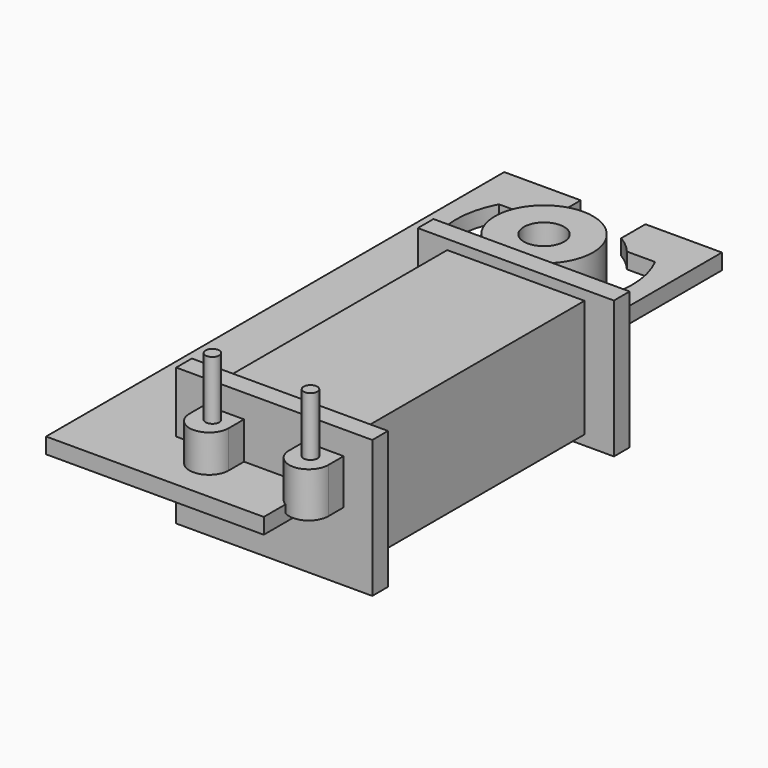
from build123d import *

# Parameters (mm, degrees)
PAD_DEPTH     = 0.4
SKETCH001_W   = 7
SKETCH001_H   = 14.4
PAD001_DEPTH  = 3
SKETCH002_W   = 10
SKETCH002_H   = 7
PAD002_DEPTH  = 1
SKETCH003_W   = 10
SKETCH003_H   = 7
PAD003_DEPTH  = 1
PAD005_DEPTH  = 2.3
SKETCH006_R   = 0.35
PAD006_DEPTH  = 3
SKETCH004_R   = 2.5
SKETCH004_R_2 = 1.025
PAD004_DEPTH  = 1.2


with BuildPart() as plate:
    # Sketch → Pad (new body, symmetric)
    with BuildSketch(Plane.XY):
        with BuildLine():
            Line((5.55, 4.4), (5.55, -24.8))
            Line((5.55, -24.8), (-5.55, -24.8))
            Line((-5.55, -24.8), (-5.55, 4.4))
            Line((-5.55, 4.4), (-1.65, 4.4))
            Line((-1.65, 4.4), (-1.65, 2.857884))
            ThreePointArc((-1.65, 2.857884), (-2.131743, 2.519062), (-2.545584, 2.1))
            Line((-3.97995, 2.1), (-2.545584, 2.1))
            ThreePointArc((-3.97995, 2.1), (-4.5, 0), (-3.97995, -2.1))
            Line((-3.97995, -2.1), (-2.545584, -2.1))
            ThreePointArc((-2.545584, -2.1), (-2.140069, -2.511992), (-1.668882, -2.846899))
            Line((-1.668882, -2.846899), (-1.668882, -7.850596))
            Line((-1.668882, -7.850596), (-2.25, -8.610462))
            Line((-2.25, -8.610462), (-2.25, -20.65))
            Line((-2.25, -20.65), (2.25, -20.65))
            Line((2.25, -8.610462), (2.25, -20.65))
            Line((1.668882, -7.874509), (2.25, -8.610462))
            Line((1.668882, -7.874509), (1.668882, -2.846899))
            ThreePointArc((1.668882, -2.846899), (2.140071, -2.511994), (2.545584, -2.1))
            Line((2.545584, -2.1), (3.97995, -2.1))
            ThreePointArc((3.97995, -2.1), (4.5, 0), (3.97995, 2.1))
            Line((2.545584, 2.1), (3.97995, 2.1))
            ThreePointArc((2.545584, 2.1), (2.131747, 2.519095), (1.65, 2.857949))
            Line((1.65, 2.857949), (1.65, 4.4))
            Line((1.65, 4.4), (5.55, 4.4))
        make_face()
    extrude(amount=PAD_DEPTH, both=True)


with BuildPart() as coil:
    # Sketch001 → Pad001 (new body, symmetric)
    with BuildSketch(Plane.XY):
        with Locations((0, -0.37169)):
            Rectangle(SKETCH001_W, SKETCH001_H)
    extrude(amount=PAD001_DEPTH, both=True)

    # Sketch002 (on Face3 of Pad001) → Pad002 (join)
    with BuildSketch(Plane.XZ.offset(7.57169)):
        Rectangle(SKETCH002_W, SKETCH002_H)
    extrude(amount=PAD002_DEPTH)

    # Sketch003 (on Face11 of Pad002) → Pad003 (join)
    with BuildSketch(Plane(origin=(0, 6.82831, 0), x_dir=(-1, 0, 0), z_dir=(0, 1, 0))):
        Rectangle(SKETCH003_W, SKETCH003_H)
    extrude(amount=PAD003_DEPTH)

    # Sketch005 → Pad005 (join)
    with BuildSketch(Plane.XY):
        with BuildLine():
            ThreePointArc((-3.539731, -9.545275), (-2.539731, -10.545275), (-1.539731, -9.545275))
            Line((-1.539731, -8.57169), (-1.539731, -9.545275))
            Line((-3.539731, -8.57169), (-1.539731, -8.57169))
            Line((-3.539731, -8.57169), (-3.539731, -9.545275))
        make_face()
        with BuildLine():
            ThreePointArc((1.539731, -9.545275), (2.539731, -10.545275), (3.539731, -9.545275))
            Line((3.539731, -8.57169), (3.539731, -9.545275))
            Line((3.539731, -8.57169), (1.539731, -8.57169))
            Line((1.539731, -8.57169), (1.539731, -9.545275))
        make_face()
    extrude(amount=PAD005_DEPTH)

    # Sketch006 (on Face19 of Pad005) → Pad006 (join)
    with BuildSketch(Plane.XY.offset(2.3)):
        with Locations((-2.5, -9.384607)):
            Circle(SKETCH006_R)
        with Locations((2.5, -9.384607)):
            Circle(SKETCH006_R)
    extrude(amount=PAD006_DEPTH)


with BuildPart() as coil_1:
    # Body001 placement: moved
    add(coil.part.moved(Location((3.5, -13, 0))))


with BuildPart() as magnet:
    # Sketch004 → Pad004 (new body, symmetric)
    with BuildSketch(Plane.XY):
        Circle(SKETCH004_R)
        Circle(SKETCH004_R_2, mode=Mode.SUBTRACT)
    extrude(amount=PAD004_DEPTH, both=True)


solid = Compound([plate.part, coil_1.part, magnet.part])
